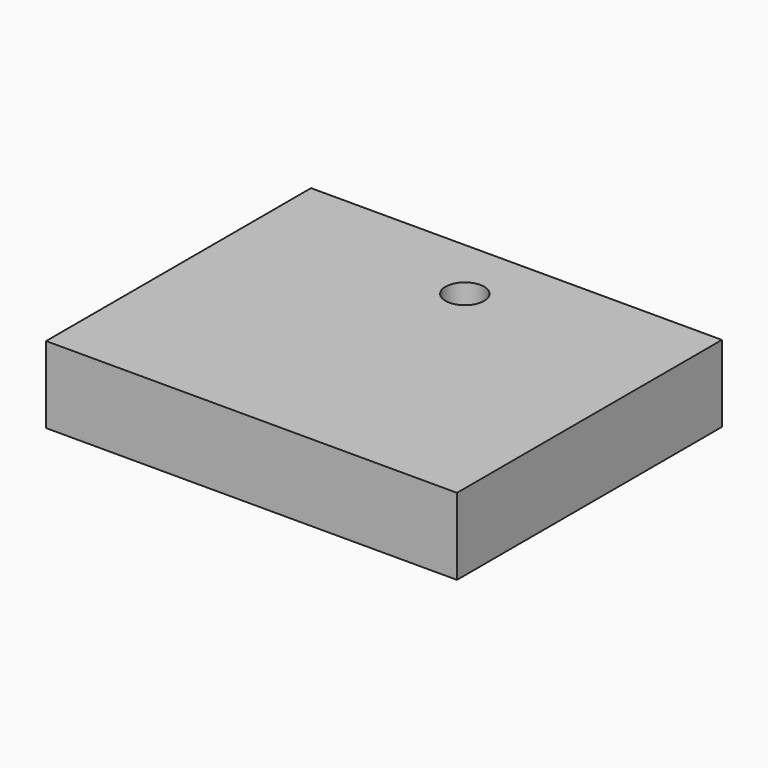
from build123d import *

# Parameters (mm, degrees)
F0_W     = 67
F0_H     = 54
F0_R     = 3.15
F1_DEPTH = 12.5


with BuildPart() as f1:
    # F0 (on Top) → F1 (new body)
    with BuildSketch(Plane.XY):
        with Locations((4.935, 0.682928)):
            Rectangle(F0_W, F0_H)
        with Locations((4.935, 17.163567)):
            Circle(F0_R, mode=Mode.SUBTRACT)
    extrude(amount=-F1_DEPTH)


solid = f1.part
